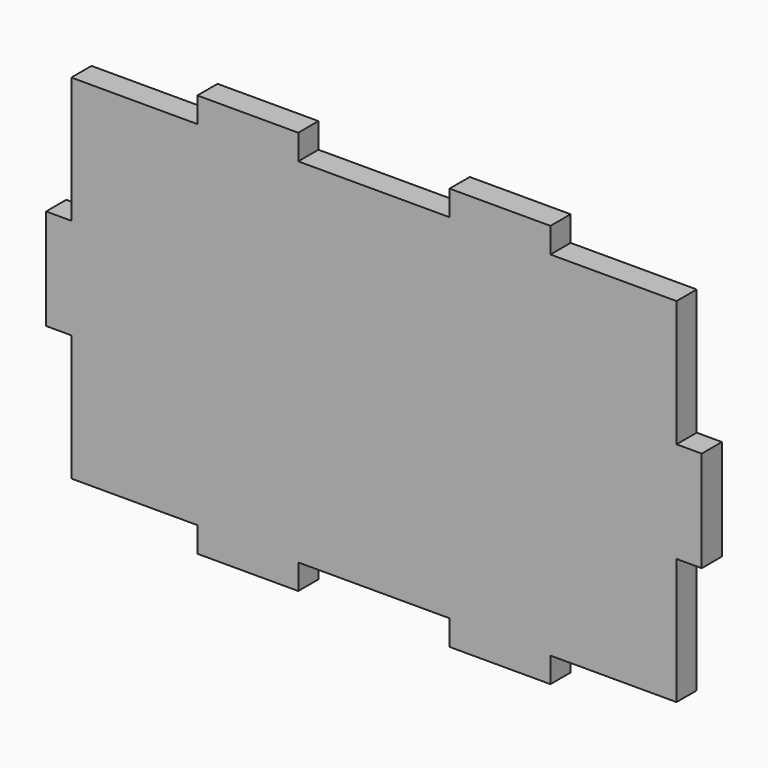
from build123d import *

# Parameters (mm, degrees)
F1_DEPTH = 5


with BuildPart() as f1:
    # F0 (on Front) → F1 (new body)
    with BuildSketch(Plane.XZ):
        Polygon((0, 25), (0, 0), (25, 0), (25, -5), (45, -5), (45, 0), (75, 0), (75, -5), (95, -5), (95, 0), (120, 0), (120, 25), (125, 25), (125, 45), (120, 45), (120, 70), (95, 70), (95, 75), (75, 75), (75, 70), (45, 70), (45, 75), (25, 75), (25, 70), (0, 70), (0, 45), (-5, 45), (-5, 25), align=None)
    extrude(amount=F1_DEPTH)


solid = f1.part
